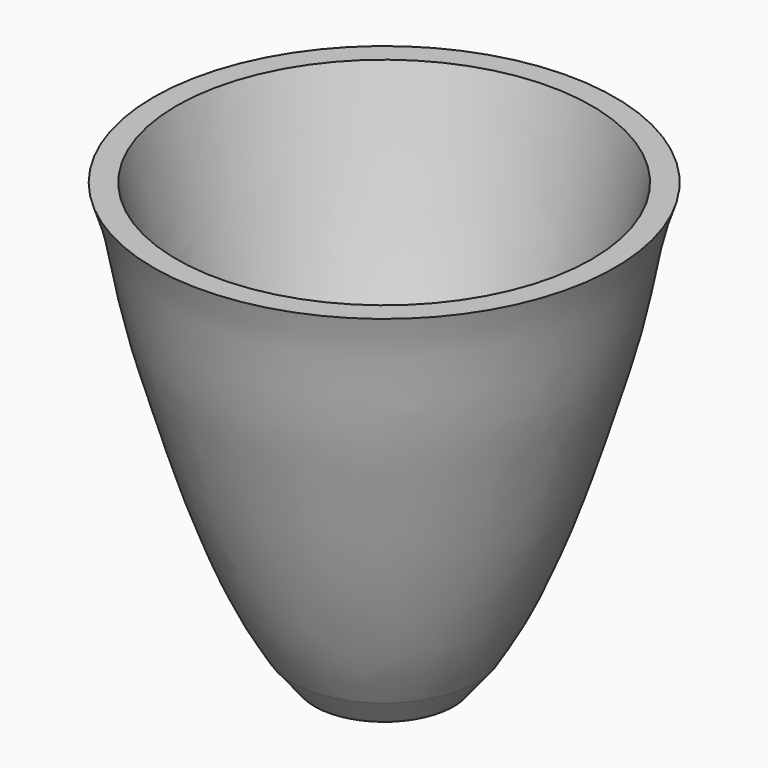
from build123d import *


with BuildPart() as f1:
    # F0 (on Front) → F1 (revolve)
    with BuildSketch(Plane.XZ):
        with BuildLine():
            add(Edge.make_bspline(
                [(-9, 20), (-8.670844358, 18.5817686732), (-8.0313266757, 15.8262819209), (-7.0324600016, 12.1327471011), (-6.0367487674, 8.9182112694), (-5.0440619587, 6.1920837626), (-4.0467708098, 3.9741148234), (-3.0640927686, 2.2050396132), (-2.3409358517, 1.3777051734), (-2, 0.987654321)],
                knots=[0, 0, 0, 0, 0.1759596608, 0.3418726586, 0.4971914011, 0.6413675649, 0.7735295815, 0.8932294178, 1, 1, 1, 1], degree=3))
            Line((-9, 20), (-10, 20))
            add(Edge.make_bspline(
                [(-10, 20), (-9.4664952795, 18.6058950283), (-9.1208569218, 15.8155038743), (-8.0104630492, 12.136008183), (-7.0427295602, 8.9152778857), (-6.0403511603, 6.1999197735), (-5.0551253221, 3.9489975858), (-4.3409591422, 2.7806319444), (-4, 2.222222222)],
                knots=[0, 0, 0, 0, 0.1969926844, 0.3827377959, 0.5566222867, 0.7180322906, 0.8659920576, 1, 1, 1, 1], degree=3))
            add(Edge.make_bspline(
                [(-4, 2.222222222), (-3.6703437697, 1.8106995883), (-3.3406875394, 1.3991769547), (-3.0110313091, 0.987654321)],
                knots=[0, 0, 0, 0, 1.5818397434, 1.5818397434, 1.5818397434, 1.5818397434], degree=3))
            Line((-3.0110313091, 0.987654321), (-2, 0.987654321))
        make_face()
    revolve(axis=Axis((0, 0, 15.0489988737), (0, 0, -1)))


solid = f1.part
